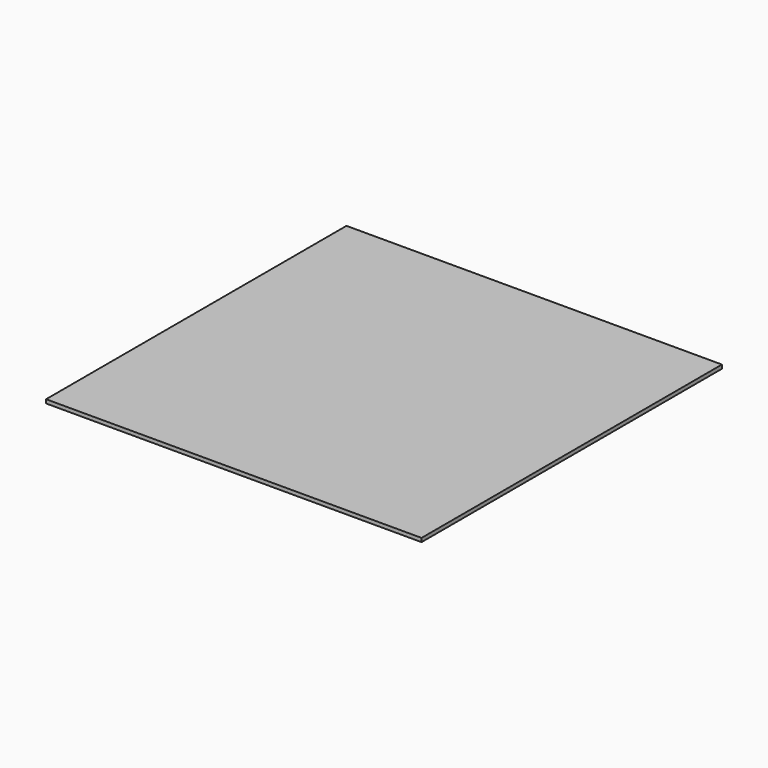
from build123d import *

# Parameters (mm, degrees)
SKETCH_W  = 20
SKETCH_H  = 20
PAD_DEPTH = 0.2


with BuildPart() as part:
    # Sketch → Pad (new body)
    with BuildSketch(Plane.XY):
        Rectangle(SKETCH_W, SKETCH_H)
    extrude(amount=PAD_DEPTH)


solid = part.part
